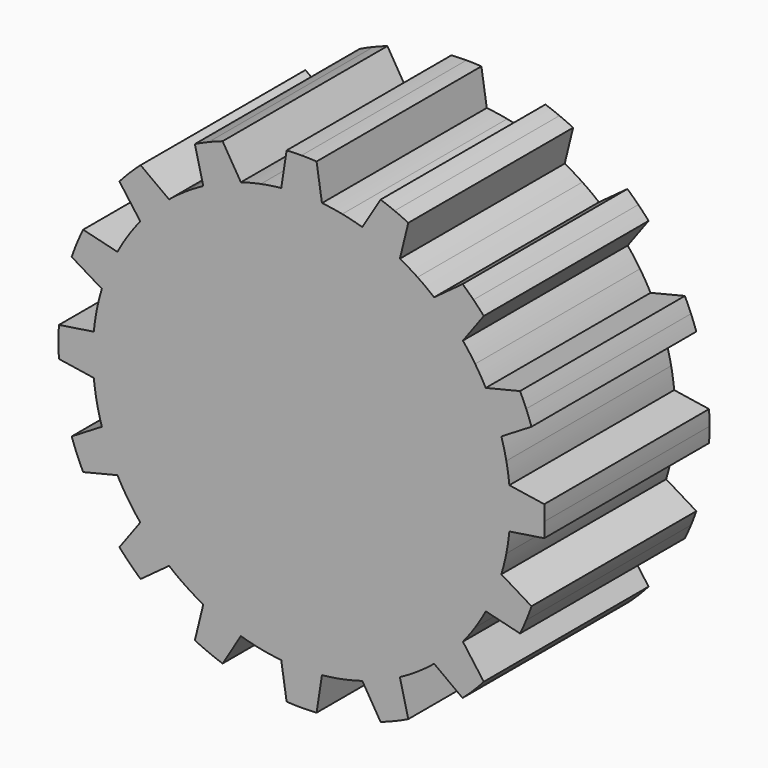
from build123d import *

# Parameters (mm, degrees)
F1_DEPTH = 5


with BuildPart() as f1:
    # F0 (on Front) → F1 (new body)
    with BuildSketch(Plane.XZ):
        with BuildLine():
            ThreePointArc((4.847286, -1.473153), (4.914051, -1.23226), (4.968852, -0.988366))
            ThreePointArc((4.968852, -0.988366), (5.011556, -0.742066), (5.042059, -0.49396))
            Line((5.042059, -0.49396), (5.888783, -0.363636))
            ThreePointArc((5.888783, -0.363636), (5.897195, -0.181905), (5.9, 0))
            ThreePointArc((5.9, 0), (5.897195, 0.181905), (5.888783, 0.363636))
            Line((5.888783, 0.363636), (5.042059, 0.49396))
            ThreePointArc((5.042059, 0.49396), (5.011556, 0.742066), (4.968852, 0.988366))
            ThreePointArc((4.968852, 0.988366), (4.914051, 1.23226), (4.847286, 1.473153))
            Line((4.847286, 1.473153), (5.579684, 1.917584))
            ThreePointArc((5.579684, 1.917584), (5.51791, 2.088701), (5.450889, 2.257832))
            ThreePointArc((5.450889, 2.257832), (5.378686, 2.424817), (5.301369, 2.589496))
            Line((5.301369, 2.589496), (4.469225, 2.385872))
            ThreePointArc((4.469225, 2.385872), (4.346098, 2.603419), (4.212389, 2.814629))
            ThreePointArc((4.212389, 2.814629), (4.068426, 3.018985), (3.914557, 3.215992))
            Line((3.914557, 3.215992), (4.421128, 3.906869))
            ThreePointArc((4.421128, 3.906869), (4.298573, 4.041321), (4.17193, 4.17193))
            ThreePointArc((4.17193, 4.17193), (4.041321, 4.298573), (3.906869, 4.421128))
            Line((3.906869, 4.421128), (3.215992, 3.914557))
            ThreePointArc((3.215992, 3.914557), (3.018985, 4.068426), (2.814629, 4.212389))
            ThreePointArc((2.814629, 4.212389), (2.603419, 4.346098), (2.385872, 4.469225))
            Line((2.385872, 4.469225), (2.589496, 5.301369))
            ThreePointArc((2.589496, 5.301369), (2.424817, 5.378686), (2.257832, 5.450889))
            ThreePointArc((2.257832, 5.450889), (2.088701, 5.51791), (1.917584, 5.579684))
            Line((1.917584, 5.579684), (1.473153, 4.847286))
            ThreePointArc((1.473153, 4.847286), (1.23226, 4.914051), (0.988366, 4.968852))
            ThreePointArc((0.988366, 4.968852), (0.742066, 5.011556), (0.49396, 5.042059))
            Line((0.49396, 5.042059), (0.363636, 5.888783))
            ThreePointArc((0.363636, 5.888783), (0.181905, 5.897195), (0, 5.9))
            ThreePointArc((0, 5.9), (-0.181905, 5.897195), (-0.363636, 5.888783))
            Line((-0.363636, 5.888783), (-0.49396, 5.042059))
            ThreePointArc((-0.49396, 5.042059), (-0.742066, 5.011556), (-0.988366, 4.968852))
            ThreePointArc((-0.988366, 4.968852), (-1.23226, 4.914051), (-1.473153, 4.847286))
            Line((-1.473153, 4.847286), (-1.917584, 5.579684))
            ThreePointArc((-1.917584, 5.579684), (-2.088701, 5.51791), (-2.257832, 5.450889))
            ThreePointArc((-2.257832, 5.450889), (-2.424817, 5.378686), (-2.589496, 5.301369))
            Line((-2.589496, 5.301369), (-2.385872, 4.469225))
            ThreePointArc((-2.385872, 4.469225), (-2.603419, 4.346098), (-2.814629, 4.212389))
            ThreePointArc((-2.814629, 4.212389), (-3.018985, 4.068426), (-3.215992, 3.914557))
            Line((-3.215992, 3.914557), (-3.906869, 4.421128))
            ThreePointArc((-3.906869, 4.421128), (-4.041321, 4.298573), (-4.17193, 4.17193))
            ThreePointArc((-4.17193, 4.17193), (-4.298573, 4.041321), (-4.421128, 3.906869))
            Line((-4.421128, 3.906869), (-3.914557, 3.215992))
            ThreePointArc((-3.914557, 3.215992), (-4.068426, 3.018985), (-4.212389, 2.814629))
            ThreePointArc((-4.212389, 2.814629), (-4.346098, 2.603419), (-4.469225, 2.385872))
            Line((-4.469225, 2.385872), (-5.301369, 2.589496))
            ThreePointArc((-5.301369, 2.589496), (-5.378686, 2.424817), (-5.450889, 2.257832))
            ThreePointArc((-5.450889, 2.257832), (-5.51791, 2.088701), (-5.579684, 1.917584))
            Line((-5.579684, 1.917584), (-4.847286, 1.473153))
            ThreePointArc((-4.847286, 1.473153), (-4.914051, 1.23226), (-4.968852, 0.988366))
            ThreePointArc((-4.968852, 0.988366), (-5.011556, 0.742066), (-5.042059, 0.49396))
            Line((-5.042059, 0.49396), (-5.888783, 0.363636))
            ThreePointArc((-5.888783, 0.363636), (-5.897195, 0.181905), (-5.9, 0))
            ThreePointArc((-5.9, 0), (-5.897195, -0.181905), (-5.888783, -0.363636))
            Line((-5.888783, -0.363636), (-5.042059, -0.49396))
            ThreePointArc((-5.042059, -0.49396), (-5.011556, -0.742066), (-4.968852, -0.988366))
            ThreePointArc((-4.968852, -0.988366), (-4.914051, -1.23226), (-4.847286, -1.473153))
            Line((-4.847286, -1.473153), (-5.579684, -1.917584))
            ThreePointArc((-5.579684, -1.917584), (-5.51791, -2.088701), (-5.450889, -2.257832))
            ThreePointArc((-5.450889, -2.257832), (-5.378686, -2.424817), (-5.301369, -2.589496))
            Line((-5.301369, -2.589496), (-4.469225, -2.385872))
            ThreePointArc((-4.469225, -2.385872), (-4.346098, -2.603419), (-4.212389, -2.814629))
            ThreePointArc((-4.212389, -2.814629), (-4.068426, -3.018985), (-3.914557, -3.215992))
            Line((-3.914557, -3.215992), (-4.421128, -3.906869))
            ThreePointArc((-4.421128, -3.906869), (-4.298573, -4.041321), (-4.17193, -4.17193))
            ThreePointArc((-4.17193, -4.17193), (-4.041321, -4.298573), (-3.906869, -4.421128))
            Line((-3.906869, -4.421128), (-3.215992, -3.914557))
            ThreePointArc((-3.215992, -3.914557), (-3.018985, -4.068426), (-2.814629, -4.212389))
            ThreePointArc((-2.814629, -4.212389), (-2.603419, -4.346098), (-2.385872, -4.469225))
            Line((-2.385872, -4.469225), (-2.589496, -5.301369))
            ThreePointArc((-2.589496, -5.301369), (-2.424817, -5.378686), (-2.257832, -5.450889))
            ThreePointArc((-2.257832, -5.450889), (-2.088701, -5.51791), (-1.917584, -5.579684))
            Line((-1.917584, -5.579684), (-1.473153, -4.847286))
            ThreePointArc((-1.473153, -4.847286), (-1.23226, -4.914051), (-0.988366, -4.968852))
            ThreePointArc((-0.988366, -4.968852), (-0.742066, -5.011556), (-0.49396, -5.042059))
            Line((-0.49396, -5.042059), (-0.363636, -5.888783))
            ThreePointArc((-0.363636, -5.888783), (-0.181905, -5.897195), (0, -5.9))
            ThreePointArc((0, -5.9), (0.181905, -5.897195), (0.363636, -5.888783))
            Line((0.363636, -5.888783), (0.49396, -5.042059))
            ThreePointArc((0.49396, -5.042059), (0.742066, -5.011556), (0.988366, -4.968852))
            ThreePointArc((0.988366, -4.968852), (1.23226, -4.914051), (1.473153, -4.847286))
            Line((1.473153, -4.847286), (1.917584, -5.579684))
            ThreePointArc((1.917584, -5.579684), (2.088701, -5.51791), (2.257832, -5.450889))
            ThreePointArc((2.257832, -5.450889), (2.424817, -5.378686), (2.589496, -5.301369))
            Line((2.589496, -5.301369), (2.385872, -4.469225))
            ThreePointArc((2.385872, -4.469225), (2.603419, -4.346098), (2.814629, -4.212389))
            ThreePointArc((2.814629, -4.212389), (3.018985, -4.068426), (3.215992, -3.914557))
            Line((3.215992, -3.914557), (3.906869, -4.421128))
            ThreePointArc((3.906869, -4.421128), (4.041321, -4.298573), (4.17193, -4.17193))
            ThreePointArc((4.17193, -4.17193), (4.298573, -4.041321), (4.421128, -3.906869))
            Line((4.421128, -3.906869), (3.914557, -3.215992))
            ThreePointArc((3.914557, -3.215992), (4.068426, -3.018985), (4.212389, -2.814629))
            ThreePointArc((4.212389, -2.814629), (4.346098, -2.603419), (4.469225, -2.385872))
            Line((4.469225, -2.385872), (5.301369, -2.589496))
            ThreePointArc((5.301369, -2.589496), (5.378686, -2.424817), (5.450889, -2.257832))
            ThreePointArc((5.450889, -2.257832), (5.51791, -2.088701), (5.579684, -1.917584))
            Line((5.579684, -1.917584), (4.847286, -1.473153))
        make_face()
    extrude(amount=F1_DEPTH)


solid = f1.part
